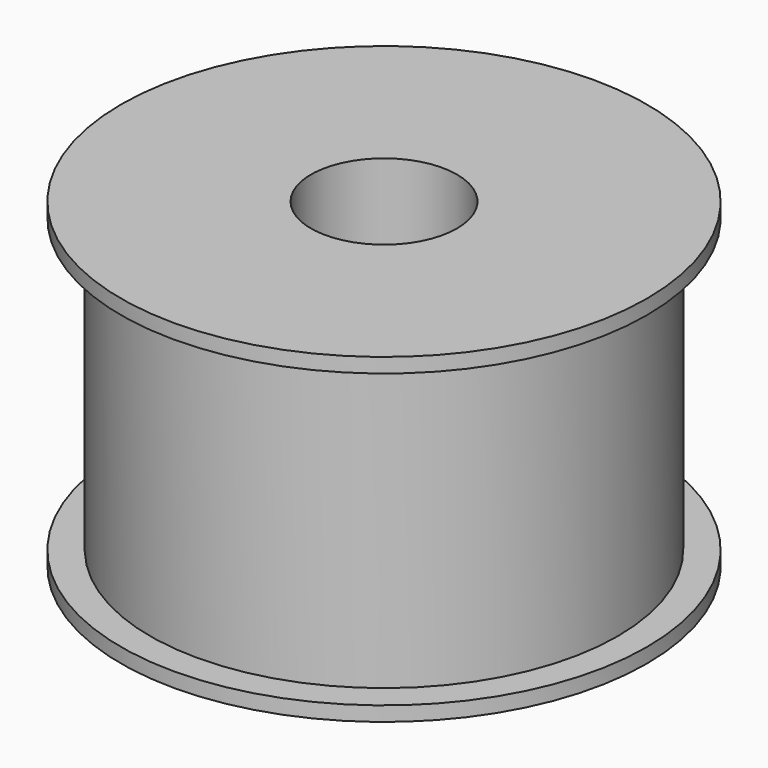
from build123d import *

# Parameters (mm, degrees)
F0_R     = 8
F0_R_2   = 2.5
F1_DEPTH = 11
F0_R_3   = 9
F2_DEPTH = 0.5
F3_START = 10.5
F3_DEPTH = 0.5


with BuildPart() as f1:
    # F0 (on Top) → F1 (new body)
    with BuildSketch(Plane.XY):
        Circle(F0_R)
        Circle(F0_R_2, mode=Mode.SUBTRACT)
    extrude(amount=F1_DEPTH)

    # F0 (on Top) → F2 (join)
    with BuildSketch(Plane.XY):
        Circle(F0_R_3)
        Circle(F0_R, mode=Mode.SUBTRACT)
    extrude(amount=F2_DEPTH)

    # F0 (on Top) → F3 (join)
    with BuildSketch(Plane.XY.offset(F3_START)):
        Circle(F0_R_3)
        Circle(F0_R, mode=Mode.SUBTRACT)
    extrude(amount=F3_DEPTH)


solid = f1.part
